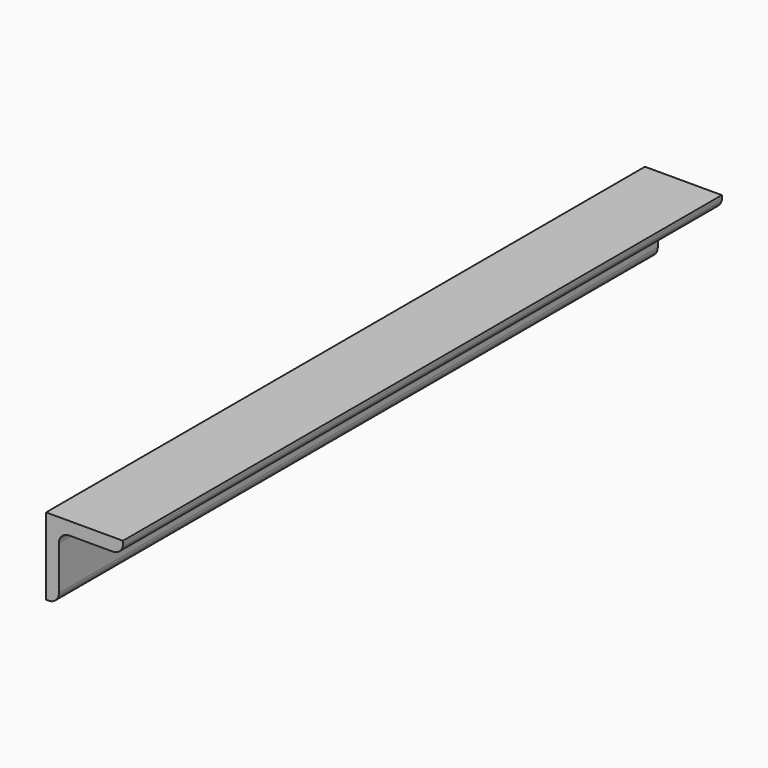
from build123d import *

# Parameters (mm, degrees)
F1_DEPTH = 370
F2_R     = 5
F3_R     = 5


with BuildPart() as f1:
    # F0 (on Front) → F1 (new body)
    with BuildSketch(Plane.XZ):
        Polygon((38, 0), (0, 0), (0, -38), (6.35, -38), (6.35, -6.343249), (38.292737, -6.343249), align=None)
    extrude(amount=F1_DEPTH)

    # F2
    f2_edges = [f1.edges().sort_by_distance(p)[0] for p in [
        (6.35, -185, -38),
        (6.35, -185, -6.343249),
    ]]
    fillet(f2_edges, radius=F2_R)

    # F3
    f3_edges = [f1.edges().sort_by_distance(p)[0] for p in [
        (38.292737, -185, -6.343249),
    ]]
    fillet(f3_edges, radius=F3_R)


solid = f1.part
